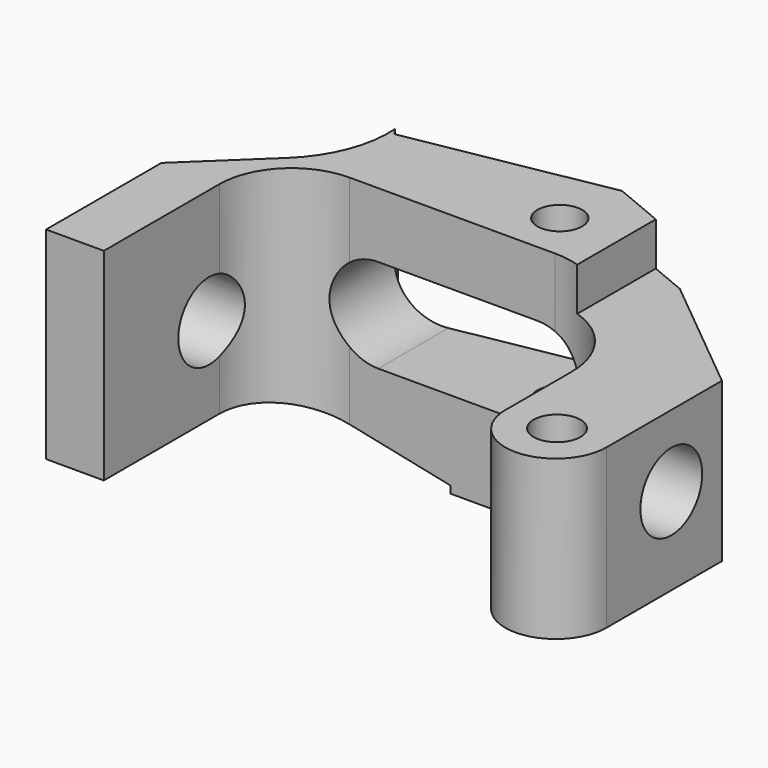
from build123d import *

# Parameters (mm, degrees)
F1_DEPTH  = 17
F2_R      = 5
F4_DEPTH  = 25
F7_DEPTH  = 7
F8_R      = 1.6228798791
F8_R_2    = 1.552456108
F8_R_3    = 1.7623350299
F10_DEPTH = 25
F9_R      = 2.6750370967
F11_DEPTH = 37.3


with BuildPart() as f1:
    # F0 (on Top) → F1 (new body)
    with BuildSketch(Plane.XY):
        with BuildLine():
            Line((-4, 0), (0, 0))
            Line((0, 0), (0, 15))
            Line((0, 15), (19.25, 15))
            ThreePointArc((19.25, 15), (23.3158639918, 13.3158639918), (25, 9.25))
            Line((25, 9.25), (25, 3.5))
            ThreePointArc((25, 3.5), (28.5, 0), (32, 3.5))
            Line((32, 3.5), (32, 13.5))
            Line((32, 13.5), (23.5, 20.4821200219))
            Line((23.5, 20.4821200219), (17.5, 22.9821200219))
            Line((17.5, 22.9821200219), (3.725022686, 20.4821200219))
            Line((3.725022686, 20.4821200219), (2.0120524503, 22.9449909018))
            ThreePointArc((2.0120524503, 22.9449909018), (-1.159330371, 24.7860054935), (-4.6061857342, 23.5345296327))
            Line((-4.6061857342, 23.5345296327), (-10.9701467649, 17.170568602))
            ThreePointArc((-10.9701467649, 17.170568602), (-11.8806837632, 12.5929899911), (-8, 10))
            Line((-8, 10), (-4, 10))
            Line((-4, 10), (-4, 0))
        make_face()
    extrude(amount=F1_DEPTH)

    # F2
    f2_edges = [f1.edges().sort_by_distance(p)[0] for p in [
        (0, 15, 8.5),
    ]]
    fillet(f2_edges, radius=F2_R)

    # F3 (on Front) → F4 (intersect)
    with BuildSketch(Plane.XZ):
        Polygon((12, 0), (19, 0), (19, 3), (32, 3), (32, 14), (21, 14), (21, 17), (-13, 17), (-13, 3), (0, 3), (12, 0.5), align=None)
        with BuildLine():
            Line((18, 6), (7, 6))
            ThreePointArc((7, 6), (3.75, 9.25), (7, 12.5))
            Line((7, 12.5), (18, 12.5))
            ThreePointArc((18, 12.5), (21.25, 9.25), (18, 6))
        make_face(mode=Mode.SUBTRACT)
    extrude(amount=-F4_DEPTH, mode=Mode.INTERSECT)

    # F6 (on offset) → F7 (cut)
    with BuildSketch(Plane.XY.offset(17)):
        with BuildLine():
            Line((3.1616305932, 22.3574396223), (2.5333629455, 31.5121971071))
            Line((2.5333629455, 31.5121971071), (-19.064229839, 31.5121971071))
            Line((-19.064229839, 31.5121971071), (-10.1016564295, 4.1825510561))
            Line((-10.1016564295, 4.1825510561), (0.9379045805, 14.6835977212))
            ThreePointArc((0.9379045805, 14.6835977212), (3.08761934, 18.2197699763), (3.1616305932, 22.3574396223))
        make_face()
    extrude(amount=-F7_DEPTH, mode=Mode.SUBTRACT)

    # F8 (on Top) → F10 (cut)
    with BuildSketch(Plane.XY):
        with Locations((28.5243559629, 3.5737901926)):
            Circle(F8_R)
        with Locations((16.8598778546, 18.3908306062)):
            Circle(F8_R_2)
        with Locations((-5.050426349, 18.0755741894)):
            Circle(F8_R_3)
    extrude(amount=F10_DEPTH, mode=Mode.SUBTRACT)

    # F9 (on Right) → F11 (cut, symmetric)
    with BuildSketch(Plane.YZ):
        with Locations((9.1190673411, 9.0270899236)):
            Circle(F9_R)
    extrude(amount=F11_DEPTH, both=True, mode=Mode.SUBTRACT)


solid = f1.part
